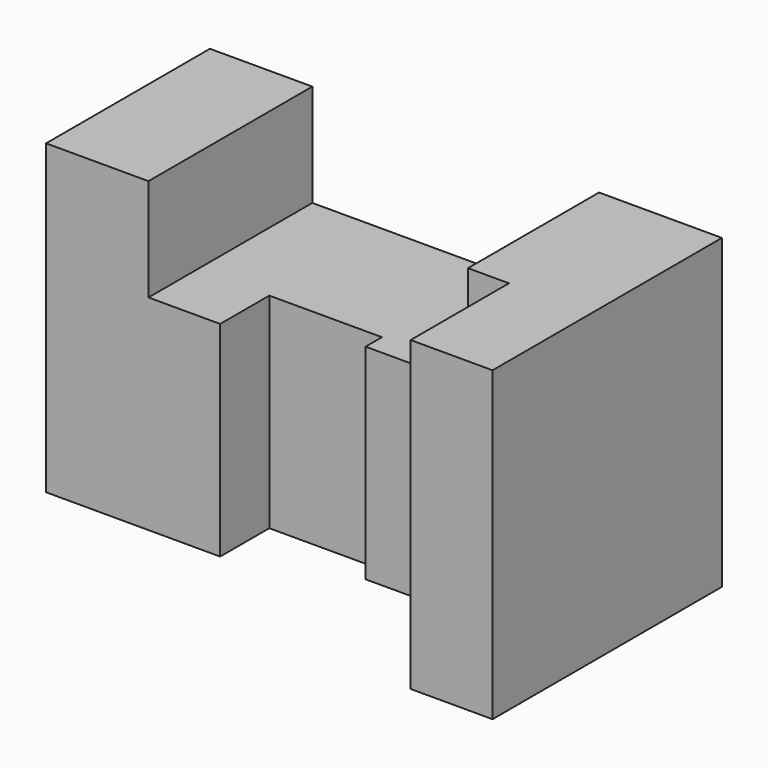
from build123d import *

# Parameters (mm, degrees)
F0_W     = 25
F0_H     = 50
F1_DEPTH = 75
F3_DEPTH = 25


with BuildPart() as f1:
    # F0 (on Top) → F1 (new body)
    with BuildSketch(Plane.XY):
        with Locations((12.5, 25)):
            Rectangle(F0_W, F0_H)
        Polygon((25, 50), (25, 0), (42.5, 0), (42.5, 15), (70, 15), (70, 10), (95, 10), (95, 50), align=None)
        Polygon((125, 50), (95, 50), (95, 10), (105, 10), (105, -20), (125, -20), align=None)
    extrude(amount=F1_DEPTH)

    # F2 (on face) → F3 (cut)
    with BuildSketch(Plane.XY.offset(75)):
        Polygon((95, 10), (95, 50), (25, 50), (25, 0), (42.5, 0), (42.5, 15), (70, 15), (70, 10), align=None)
    extrude(amount=-F3_DEPTH, mode=Mode.SUBTRACT)


solid = f1.part
